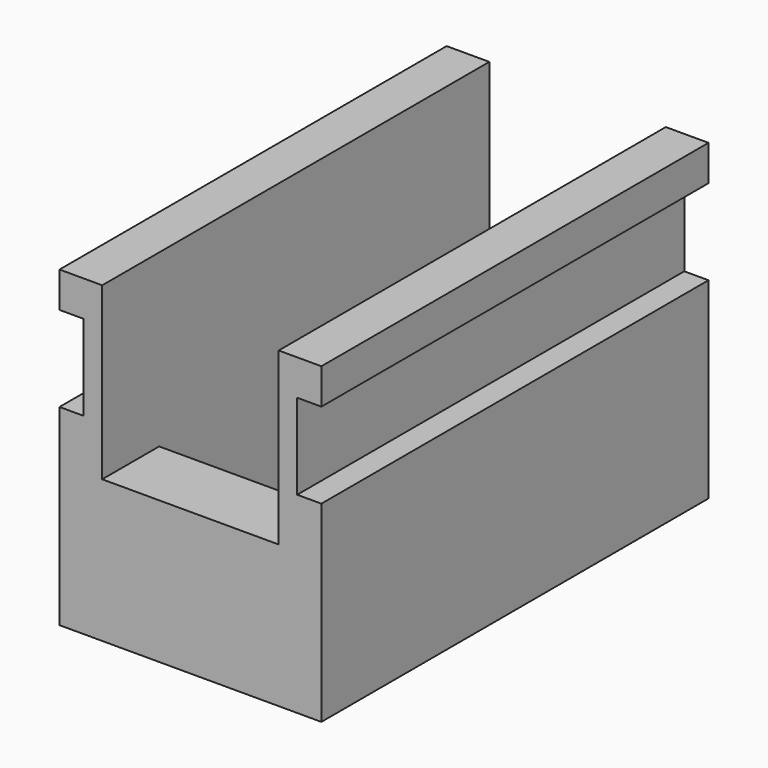
from build123d import *

# Parameters (mm, degrees)
F1_W      = 5
F1_H      = 22
F2_DEPTH  = 6.2
F3_W      = 34
F3_H      = 22
F4_DEPTH  = 3
F6_W      = 12.4
F6_H      = 5
F7_DEPTH  = 12
F8_W      = 5
F8_H      = 2
F9_DEPTH  = 25
F10_W     = 1.7
F10_H     = 6
F11_DEPTH = 34.001


with BuildPart() as f2:
    # F1 (on Right) → F2 (new body, symmetric)
    with BuildSketch(Plane.YZ):
        with Locations((-14.5, 7.65)):
            Rectangle(F1_W, F1_H)
    extrude(amount=F2_DEPTH, both=True)



with BuildPart() as f2b:
    # F1 (on Right) → F2, piece 2 (new body, symmetric)
    with BuildSketch(Plane.YZ):
        with Locations((14.5, 7.65)):
            Rectangle(F1_W, F1_H)
    extrude(amount=F2_DEPTH, both=True)


with BuildPart() as f2_1:
    add(f2.part)

    add(f2b.part)  # F4 merges F2b
    # F3 (on face) → F4 (join)
    with BuildSketch(Plane.YZ.offset(6.2)):
        with Locations((0, 7.65)):
            Rectangle(F3_W, F3_H)
    extrude(amount=F4_DEPTH)

    # F5: F2 across plane


with BuildPart() as f2_2:
    add(f2_1.part)
    add(f2_1.part.mirror(Plane.YZ))

    # F6 (on face) → F7 (cut)
    with BuildSketch(Plane.XY.offset(18.65)):
        with Locations((0, -14.5)):
            Rectangle(F6_W, F6_H)
        with Locations((0, 14.5)):
            Rectangle(F6_W, F6_H)
    extrude(amount=-F7_DEPTH, mode=Mode.SUBTRACT)

    # F8 (on face) → F9 (cut)
    with BuildSketch(Plane.XY.offset(6.65)):
        with Locations((0, 13)):
            Rectangle(F8_W, F8_H)
    extrude(amount=-F9_DEPTH, mode=Mode.SUBTRACT)

    # F10 (on face) → F11 (cut, through all)
    with BuildSketch(Plane.XZ.offset(17)):
        with Locations((-8.35, 13.15)):
            Rectangle(F10_W, F10_H)
        with Locations((8.35, 13.15)):
            Rectangle(F10_W, F10_H)
    extrude(amount=-F11_DEPTH, mode=Mode.SUBTRACT)


solid = f2_2.part
